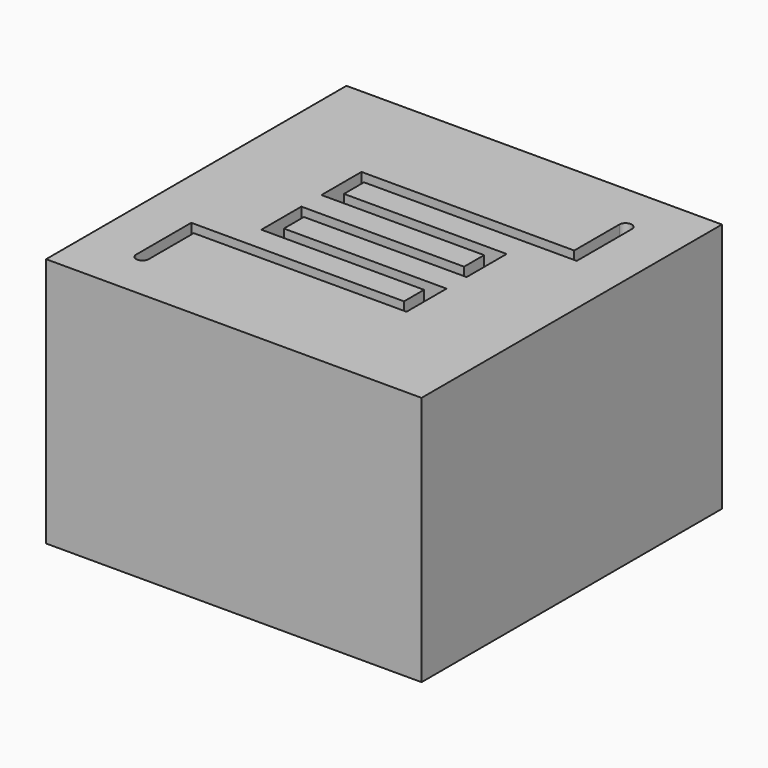
from build123d import *

# Parameters (mm, degrees)
F0_W     = 38.1
F0_H     = 38.1
F1_DEPTH = 25.4
F3_DEPTH = 2.54


with BuildPart() as f1:
    # F0 (on Top) → F1 (new body)
    with BuildSketch(Plane.XY):
        Rectangle(F0_W, F0_H)
    extrude(amount=F1_DEPTH)

    # F2 (on face) → F3 (cut)
    with BuildSketch(Plane.XY.offset(25.4)):
        with BuildLine():
            Line((-13.97, -6.985), (-13.97, -13.97))
            ThreePointArc((-13.97, -13.97), (-13.335, -14.605), (-12.7, -13.97))
            Line((-12.7, -13.97), (-12.7, -8.255))
            Line((-12.7, -8.255), (8.89, -8.255))
            Line((8.89, -8.255), (8.89, -3.175))
            Line((8.89, -3.175), (-7.62, -3.175))
            Line((-7.62, -3.175), (-7.62, -0.635))
            Line((-7.62, -0.635), (8.89, -0.635))
            Line((8.89, -0.635), (8.89, 4.445))
            Line((8.89, 4.445), (-7.62, 4.445))
            Line((-7.62, 4.445), (-7.62, 6.985))
            Line((-7.62, 6.985), (13.97, 6.985))
            Line((13.97, 6.985), (13.97, 13.97))
            ThreePointArc((13.97, 13.97), (13.335, 14.605), (12.7, 13.97))
            Line((12.7, 13.97), (12.7, 8.255))
            Line((12.7, 8.255), (-8.89, 8.255))
            Line((-8.89, 8.255), (-8.89, 3.175))
            Line((-8.89, 3.175), (7.62, 3.175))
            Line((7.62, 3.175), (7.62, 0.635))
            Line((7.62, 0.635), (-8.89, 0.635))
            Line((-8.89, 0.635), (-8.89, -4.445))
            Line((-8.89, -4.445), (7.62, -4.445))
            Line((7.62, -4.445), (7.62, -6.985))
            Line((7.62, -6.985), (-13.97, -6.985))
        make_face()
    extrude(amount=-F3_DEPTH, mode=Mode.SUBTRACT)


solid = f1.part
